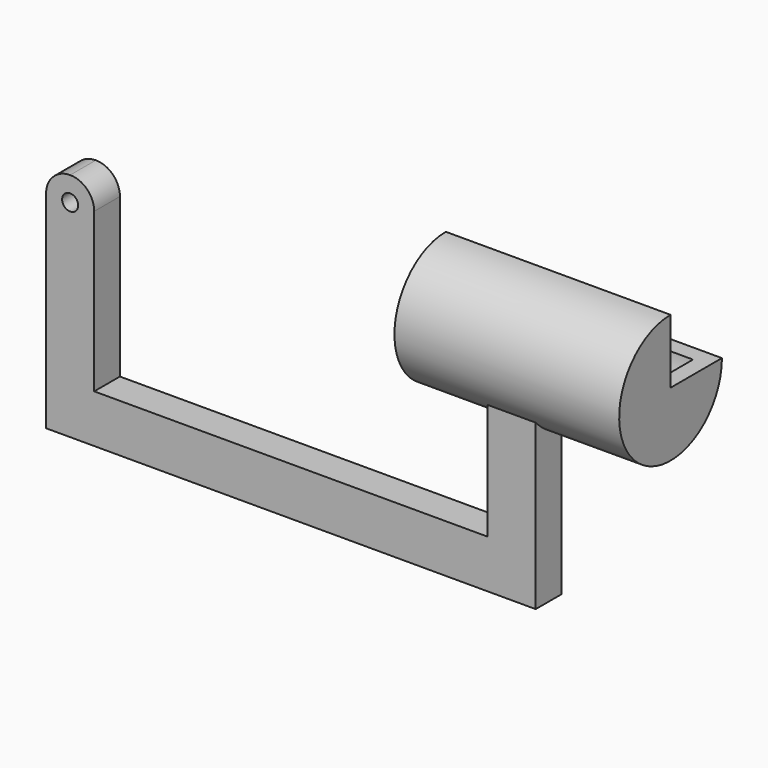
from build123d import *

# Parameters (mm, degrees)
F3_R      = 12.7
F4_DEPTH  = 50.8
F4_FACE_W = 76.2
F4_FACE_H = 50.8
F6_W      = 218.9167588949
F6_H      = 225.1323610544
F7_DEPTH  = 723.20793


with BuildPart() as f1:
    # F0 (on Front) → F1 (revolve)
    with BuildSketch(Plane.XZ):
        Polygon((165.1, 76.2), (165.1, 0), (190.5, 0), (190.5, 101.6), (-165.1, 101.6), (-165.1, 25.4), (-139.7, 25.4), (-139.7, 76.2), align=None)
    revolve(axis=Axis((0, 0, 0), (1, 0, 0)))

    # F3 (on offset) → F4 (join)
    with BuildSketch(Plane.XZ.offset(25.4)):
        with BuildLine():
            Line((38.1, -98.3737769937), (-38.1, -98.3737769937))
            Line((-38.1, -98.3737769937), (-38.1, -250.7737769937))
            Line((-38.1, -250.7737769937), (-660.4, -250.7737769937))
            Line((-660.4, -250.7737769937), (-660.4, 0))
            ThreePointArc((-660.4, 0), (-671.5592316368, 26.9407683632), (-698.5, 38.1))
            ThreePointArc((-698.5, 38.1), (-725.4407683632, 26.9407683632), (-736.6, 0))
            Line((-736.6, 0), (-736.6, -326.9737769937))
            Line((-736.6, -326.9737769937), (-660.4, -326.9737769937))
            Line((-660.4, -326.9737769937), (38.1, -326.9737769937))
            Line((38.1, -326.9737769937), (38.1, -250.7737769937))
            Line((38.1, -250.7737769937), (38.1, -98.3737769937))
        make_face()
        with Locations((-698.5, 0)):
            Circle(F3_R, mode=Mode.SUBTRACT)
    extrude(amount=F4_DEPTH)

    # F4_face (on face) → F5 (join, up to the next surface of F1)
    with BuildSketch(Plane(origin=(0, -50.8, -98.3737769937), x_dir=(1, 0, 0), z_dir=(0, 0, 1))):
        Rectangle(F4_FACE_W, F4_FACE_H)
    extrude(until=Until.NEXT)

    # F6 (on face) → F7 (cut)
    with BuildSketch(Plane(origin=(-165.1, 0, 0), x_dir=(0, -1, 0), z_dir=(-1, 0, 0))):
        with Locations((-109.4583794475, 112.5661805272)):
            Rectangle(F6_W, F6_H)
    extrude(amount=-F7_DEPTH, mode=Mode.SUBTRACT)


solid = f1.part
